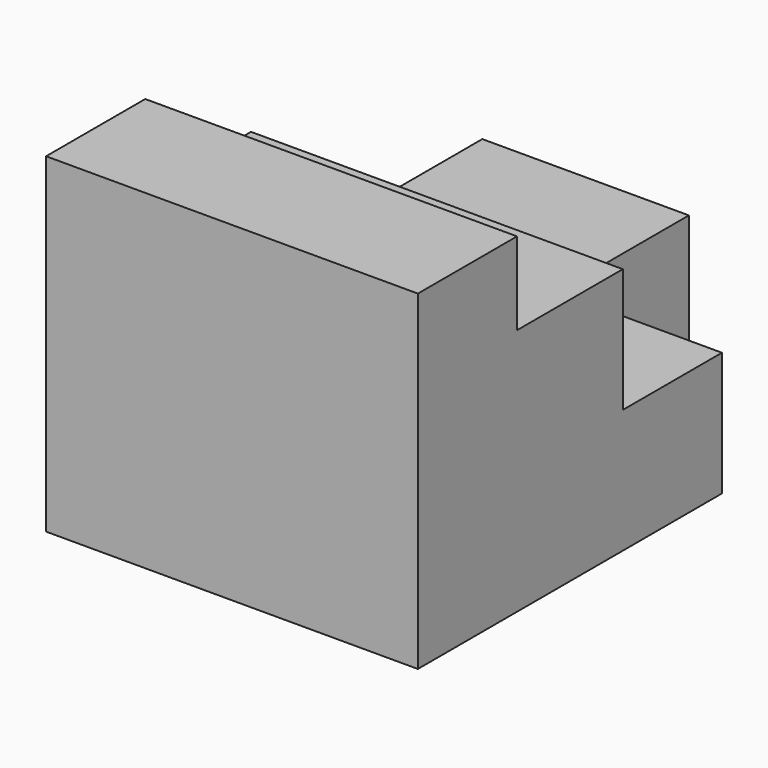
from build123d import *

# Parameters (mm, degrees)
F1_DEPTH = 57.15
F2_W     = 25.4
F2_H     = 25.4
F3_DEPTH = 19.051


with BuildPart() as f1:
    # F0 (on Right) → F1 (new body)
    with BuildSketch(Plane.YZ):
        Polygon((0, 50.8), (0, 0), (83.82, 0), (83.82, 19.05), (39.37, 19.05), (39.37, 38.1), (19.05, 38.1), (19.05, 50.8), align=None)
    extrude(amount=F1_DEPTH)

    # F2 (on face) → F3 (cut, through all)
    with BuildSketch(Plane.XY.offset(19.05)):
        with Locations((44.45, 71.12)):
            Rectangle(F2_W, F2_H)
    extrude(amount=-F3_DEPTH, mode=Mode.SUBTRACT)


solid = f1.part
